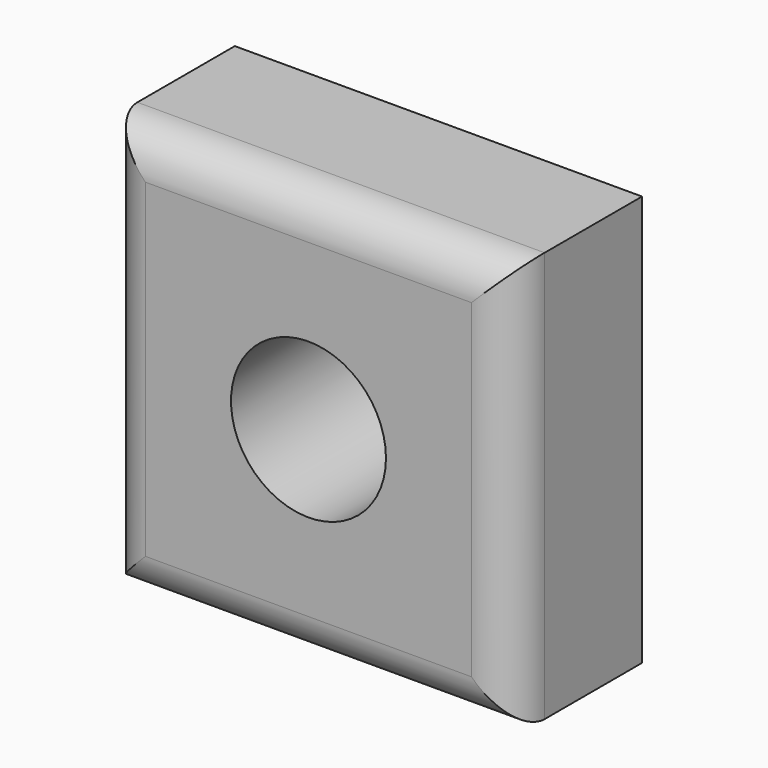
from build123d import *

# Parameters (mm, degrees)
F0_W     = 50.953738
F0_H     = 51.374846
F1_DEPTH = 25.4
F2_R     = 5.08
F3_SIZE  = 5.08
F4_R     = 9.694572
F5_DEPTH = 25.4


with BuildPart() as f1:
    # F0 (on Front) → F1 (new body)
    with BuildSketch(Plane.XZ):
        Rectangle(F0_W, F0_H)
    extrude(amount=F1_DEPTH)

    # F2
    f2_edges = [f1.edges().sort_by_distance(p)[0] for p in [
        (0, -25.4, 25.687423),
        (25.476869, -25.4, 0),
        (0, -25.4, -25.687423),
        (-25.476869, -25.4, 0),
    ]]
    fillet(f2_edges, radius=F2_R)

    # F3
    f3_edges = [f1.edges().sort_by_distance(p)[0] for p in [
        (0, 0, 25.687423),
        (-25.476869, 0, 0),
        (0, 0, -25.687423),
        (25.476869, 0, 0),
    ]]
    chamfer(f3_edges, length=F3_SIZE)

    # F4 (on face) → F5 (cut)
    with BuildSketch(Plane.XZ.offset(25.4)):
        Circle(F4_R)
    extrude(amount=-F5_DEPTH, mode=Mode.SUBTRACT)


solid = f1.part
